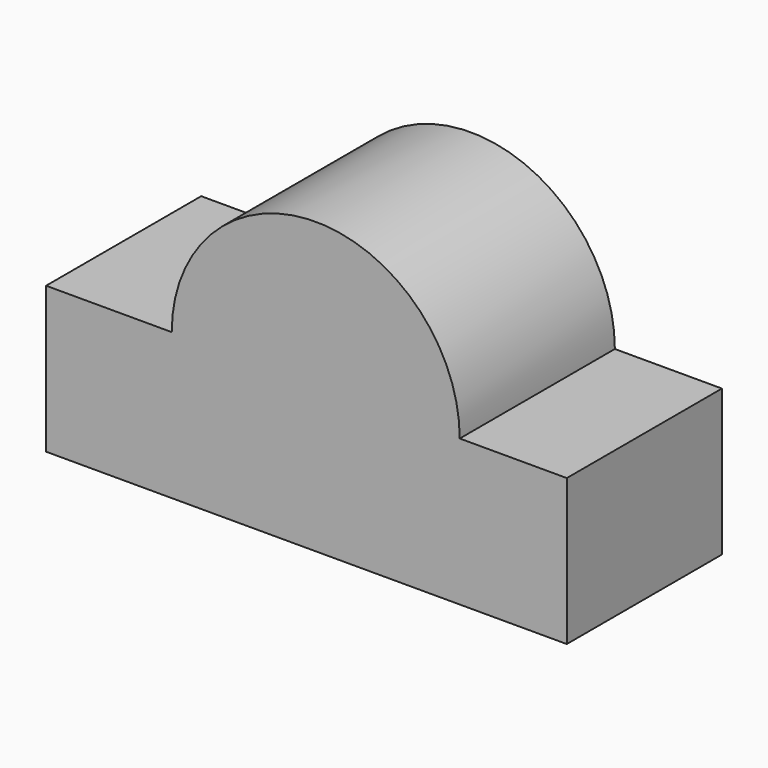
from build123d import *

# Parameters (mm, degrees)
F1_DEPTH = 38.63857


with BuildPart() as f1:
    # F0 (on Front) → F1 (new body)
    with BuildSketch(Plane.XZ):
        with BuildLine():
            Line((50.031018, 0), (28.696741, 0))
            ThreePointArc((28.696741, 0), (0, 28.696741), (-28.696741, 0))
            Line((-28.696741, 0), (-53.734802, 0))
            Line((-53.734802, 0), (-53.734802, -29.121401))
            Line((-53.734802, -29.121401), (0, -29.121401))
            Line((0, -29.121401), (50.031018, -29.121401))
            Line((50.031018, -29.121401), (50.031018, 0))
        make_face()
    extrude(amount=F1_DEPTH)


solid = f1.part
